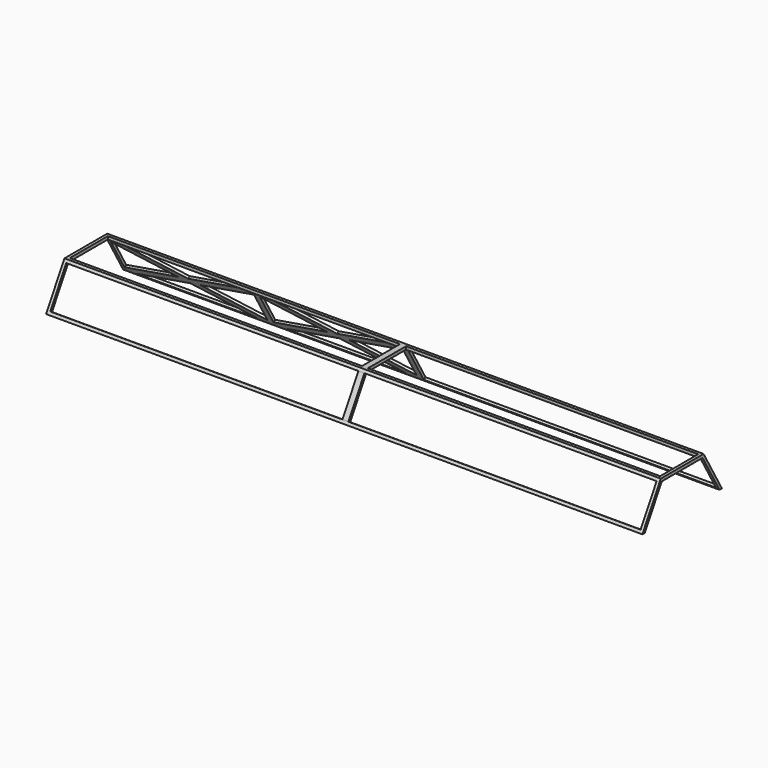
from build123d import *

# Parameters (mm, degrees)
F1_DEPTH  = 15240
F2_W      = 15087.6
F2_H      = 1020.7757469933
F3_DEPTH  = 76.2
F4_W      = 15087.6
F4_H      = 1214.4242530067
F5_DEPTH  = 76.2
F6_W      = 15087.6
F6_H      = 1020.7757469933
F7_DEPTH  = 76.2
F9_DEPTH  = 66.04
F10_W     = 76.2
F10_H     = 1020.7757469933
F11_DEPTH = 66.04
F13_DEPTH = 76.2
F15_DEPTH = 66.04


with BuildPart() as f1:
    # F0 (on Right) → F1 (new body)
    with BuildSketch(Plane.YZ):
        Polygon((-40.4404837035, 1016), (-627.0283572002, 0), (-550.8283572002, 0), (-8.2345742158, 939.8), (1294.1778598154, 939.8), (1836.7716427998, 0), (1912.9716427998, 0), (1326.3837693031, 1016), align=None)
    extrude(amount=-F1_DEPTH)

    # F2 (on face) → F3 (cut)
    with BuildSketch(Plane(origin=(0, -470.2712679001, 271.5112431143), x_dir=(1, 0, 0), z_dir=(0, -0.8660254038, 0.5))):
        with Locations((-7620, 273.0736948966)):
            Rectangle(F2_W, F2_H)
    extrude(amount=-F3_DEPTH, mode=Mode.SUBTRACT)

    # F4 (on face) → F5 (cut)
    with BuildSketch(Plane.XY.offset(1016)):
        with Locations((-7620, 642.9716427998)):
            Rectangle(F4_W, F4_H)
    extrude(amount=-F5_DEPTH, mode=Mode.SUBTRACT)

    # F6 (on face) → F7 (cut)
    with BuildSketch(Plane(origin=(0, 1434.7287320999, 828.3410196919), x_dir=(-1, 0, 0), z_dir=(0, 0.8660254038, 0.5))):
        with Locations((7620, -369.8979479032)):
            Rectangle(F6_W, F6_H)
    extrude(amount=-F7_DEPTH, mode=Mode.SUBTRACT)

    # F8 (on face) → F9 (join)
    with BuildSketch(Plane(origin=(0, -470.2712679001, 271.5112431143), x_dir=(1, 0, 0), z_dir=(0, -0.8660254038, 0.5))):
        Polygon((-7543.8, 783.4615683932), (-7620, 783.4615683932), (-7620, 228.8013398647), (-7620, -237.3141786001), (-7543.8, -237.3141786001), align=None)
        Polygon((-7620, 228.8013398647), (-7620, 783.4615683932), (-7696.2, 783.4615683932), (-7696.2, -237.3141786001), (-7620, -237.3141786001), align=None)
    extrude(amount=-F9_DEPTH)

    # F10 (on face) → F11 (join)
    with BuildSketch(Plane(origin=(0, 1434.7287320999, 828.3410196919), x_dir=(-1, 0, 0), z_dir=(0, 0.8660254038, 0.5))):
        with Locations((7658.1, -369.8979479032)):
            Rectangle(F10_W, F10_H)
        with Locations((7581.9, -369.8979479032)):
            Rectangle(F10_W, F10_H)
    extrude(amount=-F11_DEPTH)

    # F12 (on face) → F13 (join)
    with BuildSketch(Plane.XY.offset(1016)):
        Polygon((-7543.8, 1250.1837693031), (-7620, 1250.1837693031), (-7696.2, 1250.1837693031), (-7696.2, 35.7595162965), (-7543.8, 35.7595162965), align=None)
    extrude(amount=-F13_DEPTH)

    # F14 (on face) → F15 (join)
    with BuildSketch(Plane(origin=(0, 1434.7287320999, 828.3410196919), x_dir=(-1, 0, 0), z_dir=(0, 0.8660254038, 0.5))):
        Polygon((11353.8, 140.4899255934), (11070.3296936126, 140.4899255934), (9525, -290.7860675027), (7979.6703063874, 140.4899255934), (7696.2, 140.4899255934), (7696.2, 61.3780451929), (9241.5296936126, -369.8979479032), (7696.2, -801.1739409994), (7696.2, -880.2858213999), (7979.6703063874, -880.2858213999), (9525, -449.0098283038), (11070.3296936126, -880.2858213999), (11353.8, -880.2858213999), (11506.2, -880.2858213999), (11789.6703063874, -880.2858213999), (13335, -449.0098283038), (14880.3296936126, -880.2858213999), (15163.8, -880.2858213999), (15163.8, -801.1739409994), (13618.4703063874, -369.8979479032), (15163.8, 61.3780451929), (15163.8, 140.4899255934), (14880.3296936127, 140.4899255934), (13335, -290.7860675027), (11789.6703063873, 140.4899255934), (11506.2, 140.4899255934), align=None)
        Polygon((9808.4703063874, -369.8979479032), (11353.8, 61.3780451929), (11353.8, -801.1739409994), align=None, mode=Mode.SUBTRACT)
        Polygon((11506.2, -801.1739409994), (11506.2, 61.3780451929), (13051.5296936127, -369.8979479032), align=None, mode=Mode.SUBTRACT)
    extrude(amount=-F15_DEPTH)


solid = f1.part
